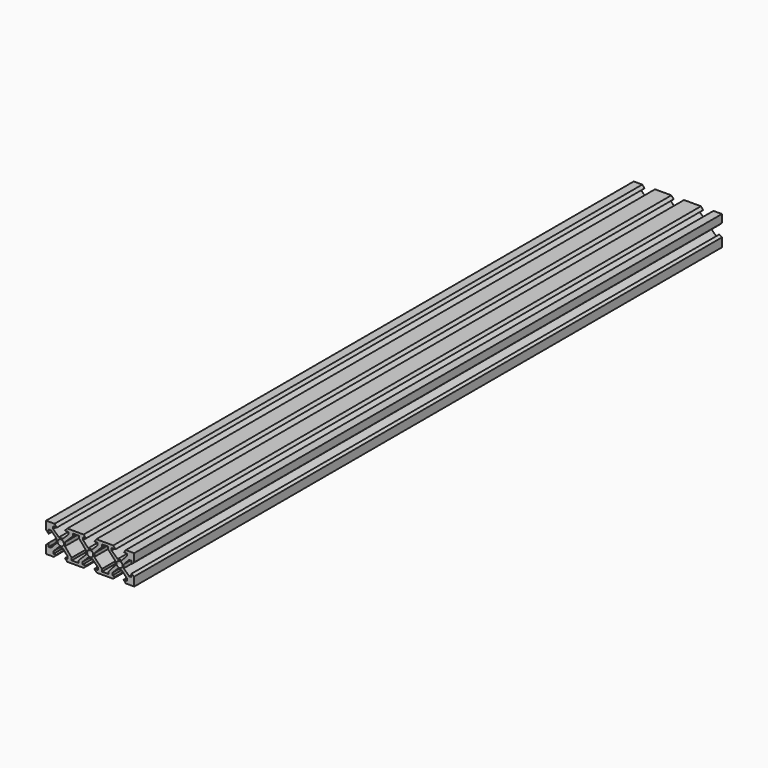
from build123d import *

# Parameters (mm, degrees)
F0_R     = 2.1
F0_W     = 2.462149
F0_H     = 1.64
F0_W_2   = 2.954578
F0_W_3   = 2.554638
F0_W_4   = 2.751813
F0_W_5   = 2.700622
F0_W_6   = 3.026464
F0_W_7   = 2.722847
F0_W_8   = 2.821042
F1_DEPTH = 500


with BuildPart() as f1:
    # F0 (on Front) → F1 (new body)
    with BuildSketch(Plane.XZ):
        Polygon((30, 4.555675), (30, 10), (24.22707, 10), (22.920883, 8.2), (24.930604, 8.2), (28.2, 8.2), (28.2, 4.884325), (28.2, 2.928185), align=None)
        Polygon((28.2, 8.2), (24.930604, 8.2), (24.930604, 6.56), (26.56, 6.56), (26.56, 4.884325), (28.2, 4.884325), align=None)
        Polygon((26.56, 6.56), (24.930604, 6.56), (21.376314, 2.85), (22.85, 2.85), (22.85, 1.029287), (26.56, 4.884325), align=None)
        Polygon((28.2, -4.97699), (26.56, -4.97699), (26.56, -6.56), (24.907887, -6.56), (24.907887, -8.2), (28.2, -8.2), align=None)
        Polygon((28.2, -2.827582), (28.2, -4.97699), (28.2, -8.2), (24.907887, -8.2), (22.780269, -8.2), (24.227049, -10), (30, -10), (30, -3.998783), align=None)
        Polygon((26.56, -4.97699), (22.85, -1.368018), (22.85, -2.85), (21.271573, -2.85), (24.907887, -6.56), (26.56, -6.56), align=None)
        Polygon((22.85, 2.85), (21.376314, 2.85), (18.752582, 2.85), (17.15, 2.85), (17.15, 1.181537), (17.15, -1.454411), (17.15, -2.85), (18.781548, -2.85), (21.271573, -2.85), (22.85, -2.85), (22.85, -1.368018), (22.85, 1.029287), align=None)
        with Locations((20, 0)):
            Circle(F0_R, mode=Mode.SUBTRACT)
        Polygon((17.15, 2.85), (18.752582, 2.85), (14.610378, 6.56), (12.148229, 6.56), (17.15, 1.181537), align=None)
        with Locations((13.379303, 7.38)):
            Rectangle(F0_W, F0_H)
        Polygon((12.148229, 8.2), (14.610378, 8.2), (17.26873, 8.2), (15.720541, 10), (4.219369, 10), (2.896034, 8.2), (5.051448, 8.2), (8.006026, 8.2), align=None)
        with Locations((6.528737, 7.38)):
            Rectangle(F0_W_2, F0_H)
        Polygon((2.85, 1.123604), (8.006026, 6.56), (5.051448, 6.56), (1.343741, 2.85), (2.85, 2.85), align=None)
        Polygon((17.15, -2.85), (17.15, -1.454411), (12.577136, -6.56), (15.131774, -6.56), (18.781548, -2.85), align=None)
        with Locations((13.854455, -7.38)):
            Rectangle(F0_W_3, F0_H)
        Polygon((15.131774, -8.2), (12.577136, -8.2), (8.006026, -8.2), (5.254213, -8.2), (2.818424, -8.2), (4.436373, -10), (15.602568, -10), (17.118241, -8.2), align=None)
        with Locations((6.63012, -7.38)):
            Rectangle(F0_W_4, F0_H)
        Polygon((5.254213, -6.56), (8.006026, -6.56), (2.85, -1.106813), (2.85, -2.85), (1.51754, -2.85), align=None)
        Polygon((2.85, -1.106813), (2.85, 1.123604), (2.85, 2.85), (1.343741, 2.85), (-1.308073, 2.85), (-2.85, 2.85), (-2.85, 1.129449), (-2.85, -1.540485), (-2.85, -2.85), (-1.461518, -2.85), (1.51754, -2.85), (2.85, -2.85), align=None)
        Circle(F0_R, mode=Mode.SUBTRACT)
        Polygon((-2.85, 2.85), (-1.308073, 2.85), (-4.837296, 6.56), (-7.537918, 6.56), (-2.85, 1.129449), align=None)
        with Locations((-6.187607, 7.38)):
            Rectangle(F0_W_5, F0_H)
        Polygon((-7.537918, 8.2), (-4.837296, 8.2), (-2.768134, 8.2), (-4.417359, 10), (-15.527925, 10), (-17.283811, 8.2), (-14.860827, 8.2), (-11.834363, 8.2), align=None)
        with Locations((-13.347595, 7.38)):
            Rectangle(F0_W_6, F0_H)
        Polygon((-17.15, 1.267669), (-11.834363, 6.56), (-14.860827, 6.56), (-18.599909, 2.85), (-17.15, 2.85), align=None)
        Polygon((-5.086812, -6.56), (-1.461518, -2.85), (-2.85, -2.85), (-2.85, -1.540485), (-7.809659, -6.56), align=None)
        with Locations((-6.448236, -7.38)):
            Rectangle(F0_W_7, F0_H)
        Polygon((-2.881428, -8.2), (-5.086812, -8.2), (-7.809659, -8.2), (-12.576681, -8.2), (-15.397723, -8.2), (-17.08678, -8.2), (-15.658125, -10), (-4.417359, -10), align=None)
        with Locations((-13.987202, -7.38)):
            Rectangle(F0_W_8, F0_H)
        Polygon((-15.397723, -6.56), (-12.576681, -6.56), (-17.15, -1.227868), (-17.15, -2.85), (-18.736489, -2.85), align=None)
        Polygon((-17.15, -1.227868), (-17.15, 1.267669), (-17.15, 2.85), (-18.599909, 2.85), (-21.29855, 2.85), (-22.85, 2.85), (-22.85, 1.455018), (-22.85, -1.113568), (-22.85, -2.85), (-21.168495, -2.85), (-18.736489, -2.85), (-17.15, -2.85), align=None)
        with Locations((-20, 0)):
            Circle(F0_R, mode=Mode.SUBTRACT)
        Polygon((-22.85, 2.85), (-21.29855, 2.85), (-25.195252, 6.56), (-26.56, 6.56), (-26.56, 5.266924), (-22.85, 1.455018), align=None)
        Polygon((-24.907576, -6.56), (-21.168495, -2.85), (-22.85, -2.85), (-22.85, -1.113568), (-26.56, -5.145273), (-26.56, -6.56), align=None)
        Polygon((-26.56, 6.56), (-25.195252, 6.56), (-25.195252, 8.2), (-28.2, 8.2), (-28.2, 5.266924), (-26.56, 5.266924), align=None)
        Polygon((-28.2, 8.2), (-25.195252, 8.2), (-22.697506, 8.2), (-24.213179, 10), (-30, 10), (-30, 4.390912), (-28.2, 2.696034), (-28.2, 5.266924), align=None)
        Polygon((-24.907576, -8.2), (-24.907576, -6.56), (-26.56, -6.56), (-26.56, -5.145273), (-28.2, -5.145273), (-28.2, -8.2), align=None)
        Polygon((-23.055149, -8.2), (-24.907576, -8.2), (-28.2, -8.2), (-28.2, -5.145273), (-28.2, -2.76243), (-30, -4.472366), (-30, -10), (-24.772262, -10), align=None)
    extrude(amount=F1_DEPTH)


solid = f1.part
